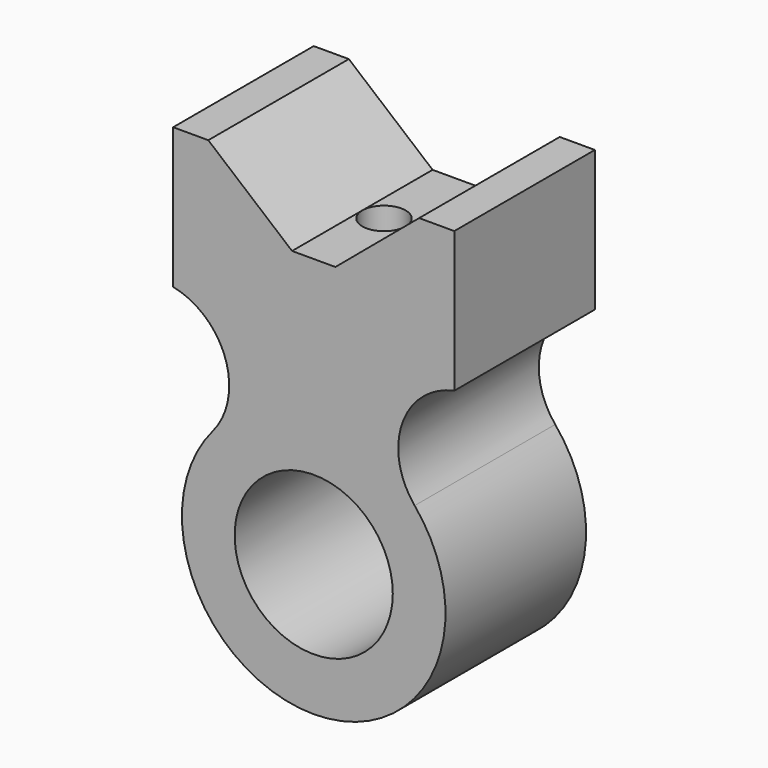
from build123d import *

# Parameters (mm, degrees)
SKETCH_R     = 22.5
PAD_DEPTH    = 25
SKETCH001_R  = 6.164928
POCKET_DEPTH = 96.547437


with BuildPart() as part:
    # Sketch → Pad (new body, symmetric)
    with BuildSketch(Plane.XZ):
        with BuildLine():
            ThreePointArc((-28.726667, 24.104535), (0, -37.5), (28.726667, 24.104535))
            ThreePointArc((40, 56.546437), (25.155668, 43.525085), (28.726667, 24.104535))
            Line((40, 56.546437), (40, 96.546437))
            Line((30, 96.546437), (40, 96.546437))
            Line((6.164928, 76.546437), (30, 96.546437))
            Line((-6.164928, 76.546437), (6.164928, 76.546437))
            Line((-30, 96.546437), (-6.164928, 76.546437))
            Line((-40, 96.546437), (-30, 96.546437))
            Line((-40, 56.546437), (-40, 96.546437))
            ThreePointArc((-28.726667, 24.104535), (-25.155668, 43.525085), (-40, 56.546437))
        make_face()
        Circle(SKETCH_R, mode=Mode.SUBTRACT)
    extrude(amount=PAD_DEPTH, both=True)

    # Sketch001 → Pocket (cut, through all)
    with BuildSketch(Plane.XY):
        Circle(SKETCH001_R)
    extrude(amount=POCKET_DEPTH, mode=Mode.SUBTRACT)


solid = part.part
